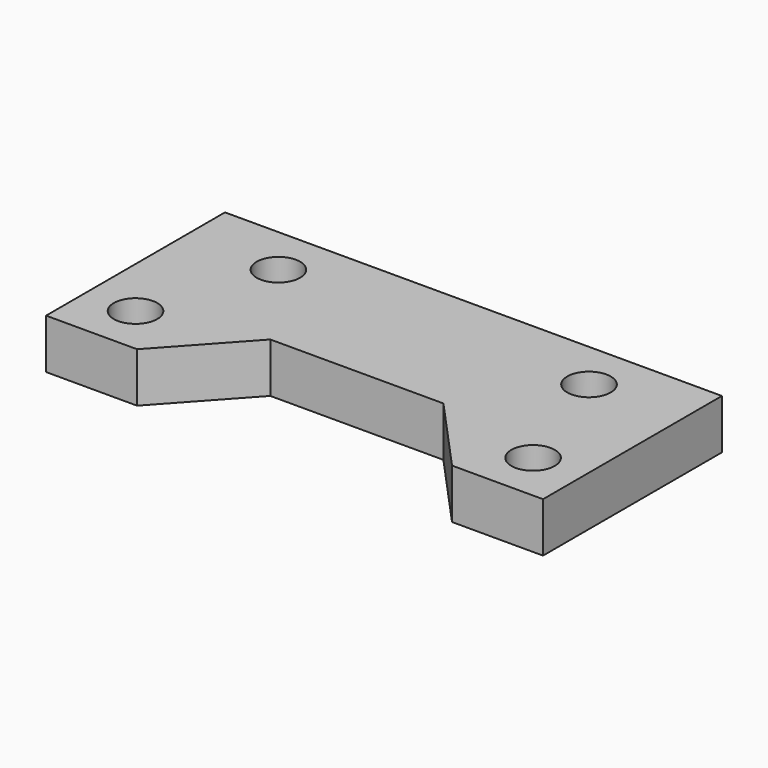
from build123d import *

# Parameters (mm, degrees)
F0_R     = 1.75
F1_DEPTH = 4


with BuildPart() as f1:
    # F0 (on Top) → F1 (new body)
    with BuildSketch(Plane.XY):
        Polygon((23.22716, 3.353091), (3.22716, 3.353091), (3.22716, -14.646909), (10.551348, -14.646909), (16.259164, -8.379568), (23.22716, -8.379568), align=None)
        with Locations((7.22716, -10.646909)):
            Circle(F0_R, mode=Mode.SUBTRACT)
        with Locations((10.72716, -0.646909)):
            Circle(F0_R, mode=Mode.SUBTRACT)
        Polygon((43.22716, 3.353091), (23.22716, 3.353091), (23.22716, -8.379568), (30.195156, -8.379568), (35.902971, -14.646909), (43.22716, -14.646909), align=None)
        with Locations((39.22716, -10.646909)):
            Circle(F0_R, mode=Mode.SUBTRACT)
        with Locations((35.72716, -0.646909)):
            Circle(F0_R, mode=Mode.SUBTRACT)
    extrude(amount=F1_DEPTH)


solid = f1.part
